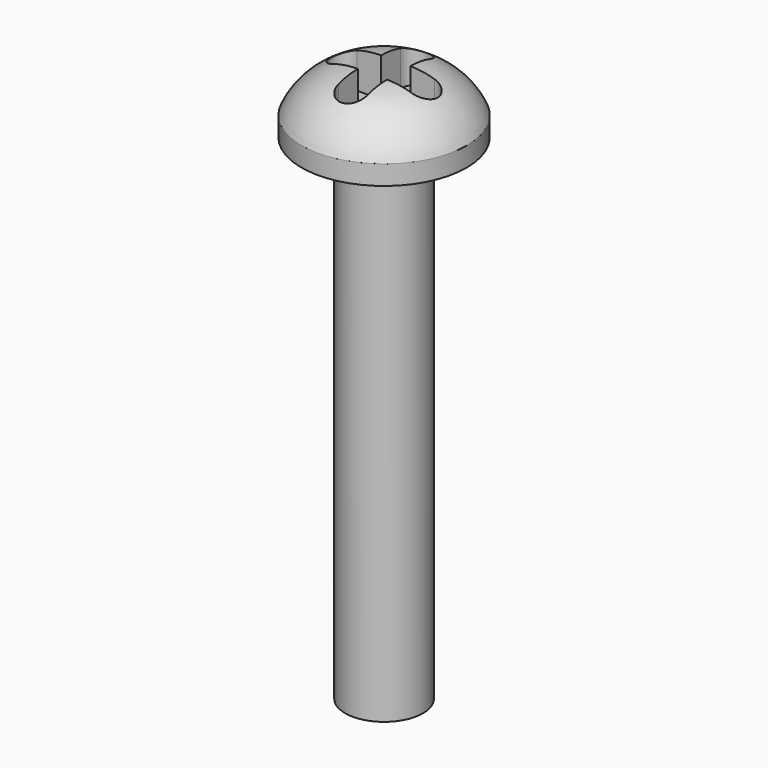
from build123d import *

# Parameters (mm, degrees)
POCKET006_DEPTH = 1
SKETCH019_R     = 1
PAD007_DEPTH    = 12.7


with BuildPart() as part:
    # Sketch017 → Revolution003 (revolve)
    with BuildSketch(Plane.XZ):
        with BuildLine():
            Line((0, 0), (0, 1.5748))
            Line((0, 1.5748), (0.5, 1.5748))
            ThreePointArc((2.1209, 0.5), (1.472434, 1.281687), (0.5, 1.5748))
            Line((2.1209, 0.5), (2.1209, 0))
            Line((2.1209, 0), (0, 0))
        make_face()
    revolve(axis=Axis((0, 0, 0), (0, 0, 1)))

    # Sketch018 (on Face1 of Revolution003) → Pocket006 (cut)
    with BuildSketch(Plane(origin=(0, 0, 1.5748), x_dir=(-1, 0, 0), z_dir=(0, 0, 1))):
        with BuildLine():
            ThreePointArc((0.375, 1), (0, 1.375), (-0.375, 1))
            Line((-0.375, 1), (-0.375, 0.375))
            Line((-0.375, 0.375), (-1, 0.375))
            ThreePointArc((-1, 0.375), (-1.375, 0), (-1, -0.375))
            Line((-1, -0.375), (-0.375, -0.375))
            Line((-0.375, -0.375), (-0.375, -1))
            ThreePointArc((-0.375, -1), (0, -1.375), (0.375, -1))
            Line((0.375, -1), (0.375, -0.375))
            Line((0.375, -0.375), (1, -0.375))
            ThreePointArc((1, -0.375), (1.375, 0), (1, 0.375))
            Line((1, 0.375), (0.375, 0.375))
            Line((0.375, 0.375), (0.375, 1))
        make_face()
    extrude(amount=-POCKET006_DEPTH, mode=Mode.SUBTRACT)

    # Sketch019 (on Face16 of Pocket006) → Pad007 (join)
    with BuildSketch(Plane(origin=(0, 0, 0), x_dir=(1, 0, 0), z_dir=(0, 0, -1))):
        Circle(SKETCH019_R)
    extrude(amount=PAD007_DEPTH)


with BuildPart() as part_1:
    # Body005 placement: moved
    add(part.part.moved(Location((14, -7, 7.75))))


solid = part_1.part
